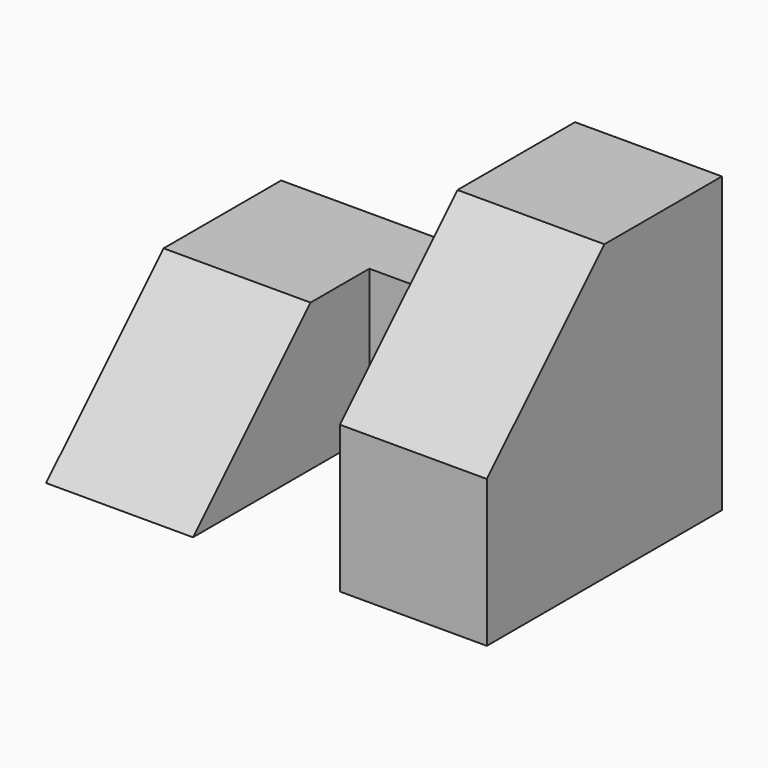
from build123d import *

# Parameters (mm, degrees)
F0_W     = 38.1
F0_H     = 25.4
F1_DEPTH = 25.4
F2_W     = 12.7
F2_H     = 19.05
F3_DEPTH = 25.401
F4_W     = 25.4
F4_H     = 12.7
F5_DEPTH = 25.401
F7_DEPTH = 12.7
F9_DEPTH = 38.101


with BuildPart() as f1:
    # F0 (on Top) → F1 (new body)
    with BuildSketch(Plane.XY):
        with Locations((19.05, -12.7)):
            Rectangle(F0_W, F0_H)
    extrude(amount=F1_DEPTH)

    # F2 (on Top) → F3 (cut, through all)
    with BuildSketch(Plane.XY):
        with Locations((19.05, -15.875)):
            Rectangle(F2_W, F2_H)
    extrude(amount=F3_DEPTH, mode=Mode.SUBTRACT)

    # F4 (on Front) → F5 (cut, through all)
    with BuildSketch(Plane.XZ):
        with Locations((12.7, 19.05)):
            Rectangle(F4_W, F4_H)
    extrude(amount=F5_DEPTH, mode=Mode.SUBTRACT)

    # F6 (on Right) → F7 (cut)
    with BuildSketch(Plane.YZ):
        Polygon((-25.4, 0), (-12.7, 12.7), (-25.4, 12.7), align=None)
    extrude(amount=F7_DEPTH, mode=Mode.SUBTRACT)

    # F8 (on Right) → F9 (cut, through all)
    with BuildSketch(Plane.YZ):
        Polygon((-25.4, 12.7), (-12.7, 25.4), (-25.4, 25.4), align=None)
    extrude(amount=F9_DEPTH, mode=Mode.SUBTRACT)


solid = f1.part
